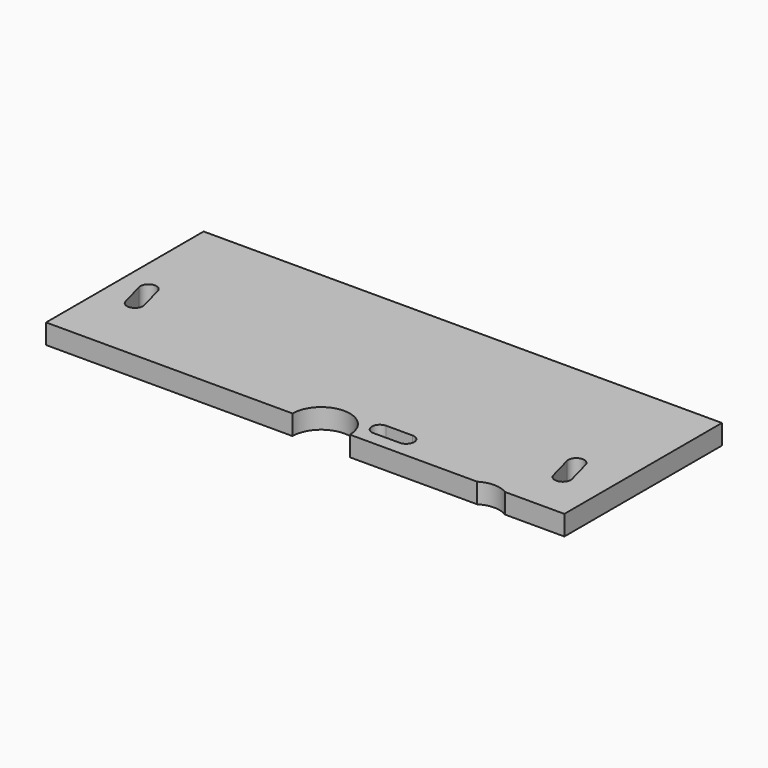
from build123d import *

# Parameters (mm, degrees)
F1_DEPTH = 20
F2_DEPTH = 25


with BuildPart() as f1:
    # F0 (on Top) → F1 (new body)
    with BuildSketch(Plane.XY):
        with BuildLine():
            Line((325, 123.5), (-325, 123.5))
            Line((-325, 123.5), (-325, -123.5))
            Line((-325, -123.5), (-16, -123.5))
            ThreePointArc((-16, -123.5), (20, -87.5), (56, -123.5))
            Line((56, -123.5), (215.535751, -123.5))
            ThreePointArc((215.535751, -123.5), (233, -118.5), (250.464249, -123.5))
            Line((250.464249, -123.5), (325, -123.5))
            Line((325, -123.5), (325, 123.5))
        make_face()
        with BuildLine():
            ThreePointArc((-300.659258, -8.08819), (-293.58819, 4.159258), (-281.340742, -2.91181))
            Line((-281.340742, -2.91181), (-272.799713, -34.787362))
            ThreePointArc((-272.799713, -34.787362), (-279.870781, -47.034811), (-292.11823, -39.963743))
            Line((-292.11823, -39.963743), (-300.659258, -8.08819))
        make_face(mode=Mode.SUBTRACT)
        with BuildLine():
            ThreePointArc((105, -86.5), (115, -96.5), (105, -106.5))
            Line((105, -106.5), (72, -106.5))
            ThreePointArc((72, -106.5), (62, -96.5), (72, -86.5))
            Line((72, -86.5), (105, -86.5))
        make_face(mode=Mode.SUBTRACT)
        with BuildLine():
            ThreePointArc((256.799713, -34.212638), (263.870781, -21.965189), (276.11823, -29.036257))
            Line((276.11823, -29.036257), (284.659258, -60.91181))
            ThreePointArc((284.659258, -60.91181), (277.58819, -73.159258), (265.340742, -66.08819))
            Line((265.340742, -66.08819), (256.799713, -34.212638))
        make_face(mode=Mode.SUBTRACT)
    extrude(amount=F1_DEPTH)

    # F0 (on Top) → F2 (join)
    with BuildSketch(Plane.XY):
        with BuildLine():
            Line((325, 123.5), (-325, 123.5))
            Line((-325, 123.5), (-325, -123.5))
            Line((-325, -123.5), (-16, -123.5))
            ThreePointArc((-16, -123.5), (20, -87.5), (56, -123.5))
            Line((56, -123.5), (215.535751, -123.5))
            ThreePointArc((215.535751, -123.5), (233, -118.5), (250.464249, -123.5))
            Line((250.464249, -123.5), (325, -123.5))
            Line((325, -123.5), (325, 123.5))
        make_face()
        with BuildLine():
            ThreePointArc((-300.659258, -8.08819), (-293.58819, 4.159258), (-281.340742, -2.91181))
            Line((-281.340742, -2.91181), (-272.799713, -34.787362))
            ThreePointArc((-272.799713, -34.787362), (-279.870781, -47.034811), (-292.11823, -39.963743))
            Line((-292.11823, -39.963743), (-300.659258, -8.08819))
        make_face(mode=Mode.SUBTRACT)
        with BuildLine():
            ThreePointArc((105, -86.5), (115, -96.5), (105, -106.5))
            Line((105, -106.5), (72, -106.5))
            ThreePointArc((72, -106.5), (62, -96.5), (72, -86.5))
            Line((72, -86.5), (105, -86.5))
        make_face(mode=Mode.SUBTRACT)
        with BuildLine():
            ThreePointArc((256.799713, -34.212638), (263.870781, -21.965189), (276.11823, -29.036257))
            Line((276.11823, -29.036257), (284.659258, -60.91181))
            ThreePointArc((284.659258, -60.91181), (277.58819, -73.159258), (265.340742, -66.08819))
            Line((265.340742, -66.08819), (256.799713, -34.212638))
        make_face(mode=Mode.SUBTRACT)
    extrude(amount=F2_DEPTH)


solid = f1.part
